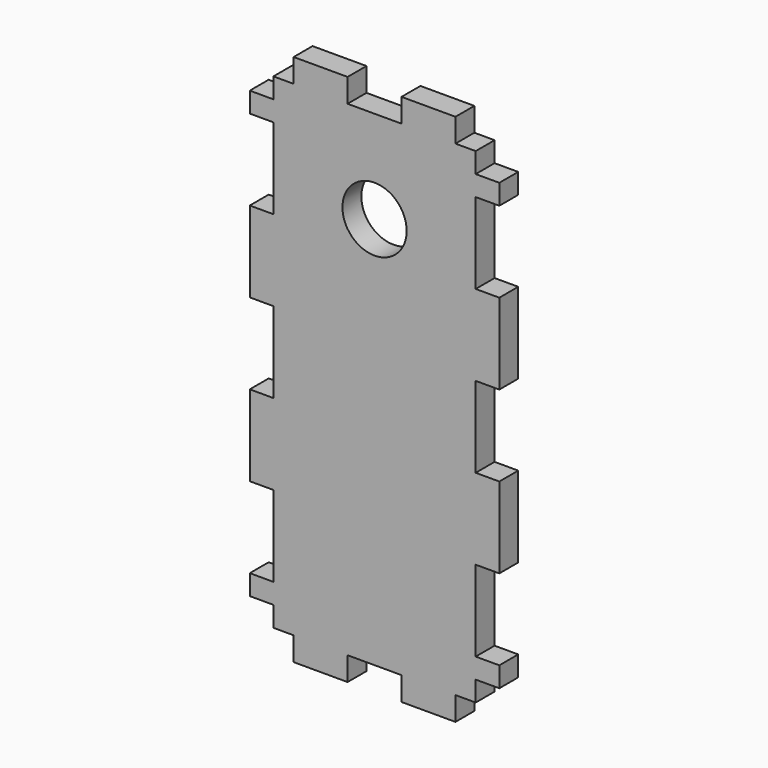
from build123d import *

# Parameters (mm, degrees)
F0_R     = 7.9375
F0_W     = 13.333333
F0_H     = 5.842
F0_W_2   = 5.842
F0_H_2   = 5
F0_H_3   = 20
F1_DEPTH = 5.842


with BuildPart() as f1:
    # F0 (on Front) → F1 (new body)
    with BuildSketch(Plane.XZ):
        Polygon((-20, 60), (-25, 60), (-25, 55), (-25, 50), (-25, 30), (-25, 10), (-25, -10), (-25, -30), (-25, -50), (-25, -55), (-25, -60), (-20, -60), (-6.666667, -60), (6.666667, -60), (20, -60), (25, -60), (25, -55), (25, -50), (25, -30), (25, -10), (25, 10), (25, 30), (25, 50), (25, 55), (25, 60), (20, 60), (6.666667, 60), (-6.666667, 60), align=None)
        with Locations((0, 37.0625)):
            Circle(F0_R, mode=Mode.SUBTRACT)
        with Locations((-13.333334, 62.921)):
            Rectangle(F0_W, F0_H)
        with Locations((-27.921, 52.5)):
            Rectangle(F0_W_2, F0_H_2)
        with Locations((13.333334, 62.921)):
            Rectangle(F0_W, F0_H)
        with Locations((-27.921, 20)):
            Rectangle(F0_W_2, F0_H_3)
        with Locations((-27.921, -20)):
            Rectangle(F0_W_2, F0_H_3)
        with Locations((27.921, 52.5)):
            Rectangle(F0_W_2, F0_H_2)
        with Locations((-27.921, -52.5)):
            Rectangle(F0_W_2, F0_H_2)
        with Locations((27.921, 20)):
            Rectangle(F0_W_2, F0_H_3)
        with Locations((27.921, -20)):
            Rectangle(F0_W_2, F0_H_3)
        with Locations((-13.333334, -62.921)):
            Rectangle(F0_W, F0_H)
        with Locations((27.921, -52.5)):
            Rectangle(F0_W_2, F0_H_2)
        with Locations((13.333334, -62.921)):
            Rectangle(F0_W, F0_H)
    extrude(amount=F1_DEPTH)


solid = f1.part
